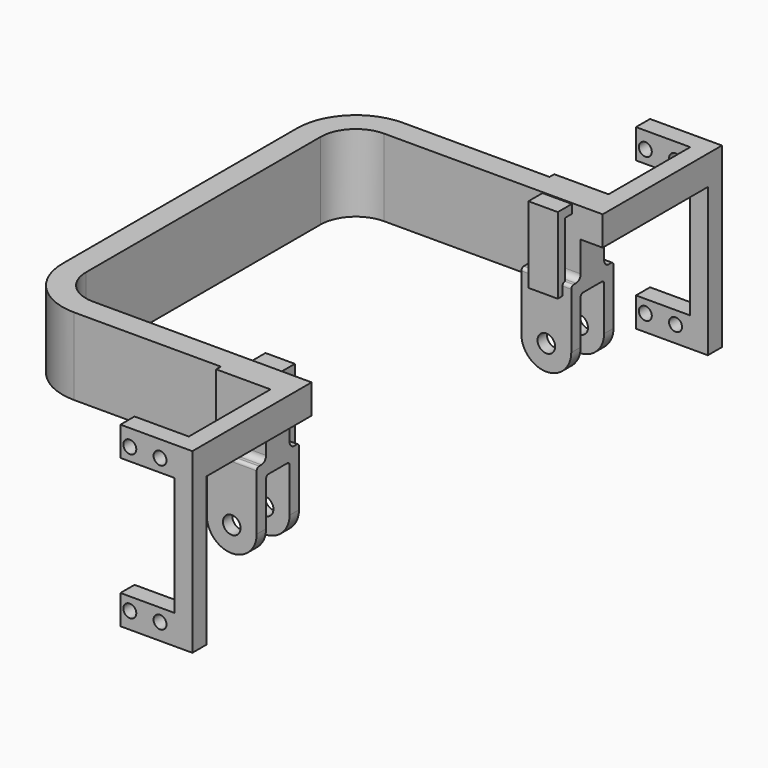
from build123d import *

# Parameters (mm, degrees)
PAD033_DEPTH                = 10
PAD032_DEPTH                = 10
BOX026_W                    = 12
BOX026_H                    = 10
BOX026_DEPTH                = 30
CYLINDER036_R               = 2.2
CYLINDER036_DEPTH           = 18
CYLINDER036_ROLL_ANGLE      = -90
ARRAY006_X_COUNT            = 2
ARRAY006_X_PITCH            = 49.2
ARRAY006_Z_COUNT            = 2
ARRAY006_Z_PITCH            = 10.3
PAD021_DEPTH                = 6
PAD020_DEPTH                = 10
BOX027_W                    = 12
BOX027_H                    = 10
BOX027_DEPTH                = 30
CYLINDER037_R               = 2.2
CYLINDER037_DEPTH           = 18
CYLINDER037_ROLL_ANGLE      = -90
ARRAY007_X_COUNT            = 2
ARRAY007_X_PITCH            = 49.2
ARRAY007_Z_COUNT            = 2
ARRAY007_Z_PITCH            = 10.3
PAD023_DEPTH                = 6
PAD022_DEPTH                = 10
BOX025_W                    = 16.3
BOX025_H                    = 10
BOX025_DEPTH                = 17
SKETCH018_R                 = 3
PAD018_DEPTH                = 4
SKETCH019_R                 = 3
PAD019_DEPTH                = 4
BOX024_W                    = 20
BOX024_H                    = 17
BOX024_DEPTH                = 10
FILLET007_R                 = 1
FILLET007_ROLL_ANGLE        = 90
FILLET008_1_R               = 2
FILLET008_2_R               = 1
BOX018_W                    = 16.3
BOX018_H                    = 10
BOX018_DEPTH                = 17
SKETCH010_R                 = 3
PAD010_DEPTH                = 4
SKETCH011_R                 = 3
PAD011_DEPTH                = 4
BOX016_W                    = 20
BOX016_H                    = 17
BOX016_DEPTH                = 10
FILLET005_R                 = 1
FILLET005_ROLL_ANGLE        = 90
FILLET006_1_R               = 2
FILLET006_2_R               = 1
PAD009_DEPTH                = 26.3
FUSION009003041_PITCH_ANGLE = 90


with BuildPart() as obj1:
    # Sketch033 → Pad033 (new body)
    with BuildSketch(Plane(origin=(-28, -127, 4), x_dir=(1, 0, 0), z_dir=(0, 0, 1))):
        Polygon((0, 0), (0, 6), (26, 6), (26, 0), (23, 0), (23, 3), (3, 3), (3, 0), align=None)
    extrude(amount=PAD033_DEPTH)


with BuildPart() as obj1_mirror:
    # Part__Mirroring009: instance of obj1
    add(obj1.part.mirror(Plane(origin=(0, 0, 0), x_dir=(1, 0, 0), z_dir=(0, 1, 0))))


with BuildPart() as obj1_mirror_1:
    # Part__Mirroring009 placement: moved
    add(obj1_mirror.part.moved(Location((0, -130, 0))))


with BuildPart() as obj2:
    # Sketch032 → Pad032 (new body)
    with BuildSketch(Plane(origin=(-28, -127, 4), x_dir=(1, 0, 0), z_dir=(0, 0, 1))):
        Polygon((0, 0), (0, 6), (26, 6), (26, 0), (23, 0), (23, 3), (3, 3), (3, 0), align=None)
    extrude(amount=PAD032_DEPTH)

    # Fusion009003040: union obj1_mirror
    add(obj1_mirror_1.part)


with BuildPart() as obj3:
    # Box026 → Box026 (new body)
    with BuildSketch(Plane(origin=(-29.5, -13, 0), x_dir=(1, 0, 0), z_dir=(0, 0, 1))):
        with Locations((6, 5)):
            Rectangle(BOX026_W, BOX026_H)
    extrude(amount=BOX026_DEPTH)


with BuildPart() as obj4:
    # Cylinder036 → Cylinder036 (new body)
    with BuildSketch(Plane.XY):
        Circle(CYLINDER036_R)
    extrude(amount=CYLINDER036_DEPTH)


with BuildPart() as obj4_1:
    # Cylinder036 roll: moved
    add(obj4.part.rotate(Axis((0, 0, 0), (1, 0, 0)), CYLINDER036_ROLL_ANGLE))


with BuildPart() as obj4_2:
    # Cylinder036 placement: moved
    add(obj4_1.part.moved(Location((150.075, 41, 13.5))))

    # Array006 X: obj4_2


with BuildPart() as obj4_3:
    add(obj4_2.part)
    with Locations(*[(i * ARRAY006_X_PITCH, 0, 0) for i in range(1, ARRAY006_X_COUNT)]):
        add(obj4_2.part)

    # Array006 Z: obj4_2


with BuildPart() as obj4_4:
    add(obj4_3.part)
    with Locations(*[(0, 0, -i * ARRAY006_Z_PITCH) for i in range(1, ARRAY006_Z_COUNT)]):
        add(obj4_3.part)


with BuildPart() as obj5:
    # Sketch021 → Pad021 (new body)
    with BuildSketch(Plane(origin=(10, 54.8, 0), x_dir=(1, 0, 0), z_dir=(0, -1, 0))):
        Polygon((0, 18.5), (0, 24.5), (50.5, 24.5), (50.5, 0), (40.5, 0), (40.5, 18.5), align=None)
    extrude(amount=PAD021_DEPTH)


with BuildPart() as obj6:
    # Sketch020 → Pad020 (new body)
    with BuildSketch(Plane.YZ):
        Polygon((14, 0), (0, 0), (0, 24.5), (54.8, 24.5), (54.8, 0), (48.8, 0), (48.8, 18.5), (14, 18.5), align=None)
    extrude(amount=PAD020_DEPTH)

    # Fusion009003025: union obj5
    add(obj5.part)


with BuildPart() as obj6_1:
    # Fusion009003025 placement: moved
    add(obj6.part.moved(Location((144.425, -3, 0))))

    # Cut017: cut obj4
    add(obj4_4.part, mode=Mode.SUBTRACT)


with BuildPart() as obj6_2:
    # Cut017 placement: moved
    add(obj6_1.part.moved(Location((-172.725, -4, 0))))

    # Cut018: cut obj3
    add(obj3.part, mode=Mode.SUBTRACT)


with BuildPart() as obj7:
    # Box027 → Box027 (new body)
    with BuildSketch(Plane(origin=(-29.5, -13, 0), x_dir=(1, 0, 0), z_dir=(0, 0, 1))):
        with Locations((6, 5)):
            Rectangle(BOX027_W, BOX027_H)
    extrude(amount=BOX027_DEPTH)


with BuildPart() as obj8:
    # Cylinder037 → Cylinder037 (new body)
    with BuildSketch(Plane.XY):
        Circle(CYLINDER037_R)
    extrude(amount=CYLINDER037_DEPTH)


with BuildPart() as obj8_1:
    # Cylinder037 roll: moved
    add(obj8.part.rotate(Axis((0, 0, 0), (1, 0, 0)), CYLINDER037_ROLL_ANGLE))


with BuildPart() as obj8_2:
    # Cylinder037 placement: moved
    add(obj8_1.part.moved(Location((150.075, 41, 13.5))))

    # Array007 X: obj8_2


with BuildPart() as obj8_3:
    add(obj8_2.part)
    with Locations(*[(i * ARRAY007_X_PITCH, 0, 0) for i in range(1, ARRAY007_X_COUNT)]):
        add(obj8_2.part)

    # Array007 Z: obj8_2


with BuildPart() as obj8_4:
    add(obj8_3.part)
    with Locations(*[(0, 0, -i * ARRAY007_Z_PITCH) for i in range(1, ARRAY007_Z_COUNT)]):
        add(obj8_3.part)


with BuildPart() as obj9:
    # Sketch023 → Pad023 (new body)
    with BuildSketch(Plane(origin=(10, 54.8, 0), x_dir=(1, 0, 0), z_dir=(0, -1, 0))):
        Polygon((0, 18.5), (0, 24.5), (50.5, 24.5), (50.5, 0), (40.5, 0), (40.5, 18.5), align=None)
    extrude(amount=PAD023_DEPTH)


with BuildPart() as obj10:
    # Sketch022 → Pad022 (new body)
    with BuildSketch(Plane.YZ):
        Polygon((14, 0), (0, 0), (0, 24.5), (54.8, 24.5), (54.8, 0), (48.8, 0), (48.8, 18.5), (14, 18.5), align=None)
    extrude(amount=PAD022_DEPTH)

    # Fusion009003026: union obj9
    add(obj9.part)


with BuildPart() as obj10_1:
    # Fusion009003026 placement: moved
    add(obj10.part.moved(Location((144.425, -3, 0))))

    # Cut019: cut obj8
    add(obj8_4.part, mode=Mode.SUBTRACT)


with BuildPart() as obj10_2:
    # Cut019 placement: moved
    add(obj10_1.part.moved(Location((-172.725, -4, 0))))

    # Cut020: cut obj7
    add(obj7.part, mode=Mode.SUBTRACT)


with BuildPart() as obj11:
    # Part__Mirroring: instance of obj10
    add(obj10_2.part.mirror(Plane(origin=(0, 0, 0), x_dir=(1, 0, 0), z_dir=(0, 1, 0))))


with BuildPart() as obj11_1:
    # Part__Mirroring placement: moved
    add(obj11.part.moved(Location((0, -130, 0))))


with BuildPart() as obj12:
    # Box025 → Box025 (new body)
    with BuildSketch(Plane(origin=(-26.3, -8, 0), x_dir=(1, 0, 0), z_dir=(0, 0, 1))):
        with Locations((8.15, 5)):
            Rectangle(BOX025_W, BOX025_H)
    extrude(amount=BOX025_DEPTH)


with BuildPart() as obj13:
    # Sketch018 → Pad018 (new body)
    with BuildSketch(Plane.XY):
        with BuildLine():
            Line((0, 17), (20, 17))
            ThreePointArc((20, 0), (28.500019, 8.5), (20, 17))
            Line((20, 0), (0, 0))
            Line((0, 0), (0, 17))
        make_face()
        with Locations((20.000019, 8.5)):
            Circle(SKETCH018_R, mode=Mode.SUBTRACT)
    extrude(amount=PAD018_DEPTH)


with BuildPart() as obj14:
    # Sketch019 → Pad019 (new body)
    with BuildSketch(Plane.XY.offset(14)):
        with BuildLine():
            Line((0, 17), (20, 17))
            ThreePointArc((20, 0), (28.500019, 8.5), (20, 17))
            Line((20, 0), (0, 0))
            Line((0, 0), (0, 17))
        make_face()
        with Locations((20.000019, 8.5)):
            Circle(SKETCH019_R, mode=Mode.SUBTRACT)
    extrude(amount=PAD019_DEPTH)


with BuildPart() as obj15:
    # Box024 → Box024 (new body)
    with BuildSketch(Plane(origin=(-16, 0, 4), x_dir=(1, 0, 0), z_dir=(0, 0, 1))):
        with Locations((10, 8.5)):
            Rectangle(BOX024_W, BOX024_H)
    extrude(amount=BOX024_DEPTH)

    # Fusion009003021: union obj13, obj14
    add(obj13.part)
    add(obj14.part)

    # Fillet007
    fillet007_edges = [obj15.edges().sort_by_distance(p)[0] for p in [
        (0, 8.5, 18),
        (-16, 0, 9),
        (-16, 17, 9),
        (0, 8.5, 0),
    ]]
    fillet(fillet007_edges, radius=FILLET007_R)


with BuildPart() as obj15_1:
    # Fillet007 roll: moved
    add(obj15.part.rotate(Axis((0, 0, 0), (1, 0, 0)), FILLET007_ROLL_ANGLE))


with BuildPart() as obj15_2:
    # Fillet007 placement: moved
    add(obj15_1.part.moved(Location((16, 15, 0))))

    # Fillet008 1
    fillet008_1_edges = [obj15_2.edges().sort_by_distance(p)[0] for p in [
        (16, 1, 8.5),
        (16, 11, 8.5),
    ]]
    fillet(fillet008_1_edges, radius=FILLET008_1_R)

    # Fillet008 2
    fillet008_2_edges = [obj15_2.edges().sort_by_distance(p)[0] for p in [
        (20, 1, 8.5),
        (20, 11, 8.5),
    ]]
    fillet(fillet008_2_edges, radius=FILLET008_2_R)


with BuildPart() as obj15_3:
    # Fillet008 placement: moved
    add(obj15_2.part.moved(Location((-20, -9, 0))))

    # Fusion009003022: union obj12
    add(obj12.part)


with BuildPart() as obj15_4:
    # Fusion009003022 placement: moved
    add(obj15_3.part.moved(Location((0, -134, 0))))


with BuildPart() as obj16:
    # Box018 → Box018 (new body)
    with BuildSketch(Plane(origin=(-26.3, -8, 0), x_dir=(1, 0, 0), z_dir=(0, 0, 1))):
        with Locations((8.15, 5)):
            Rectangle(BOX018_W, BOX018_H)
    extrude(amount=BOX018_DEPTH)


with BuildPart() as obj17:
    # Sketch010 → Pad010 (new body)
    with BuildSketch(Plane.XY):
        with BuildLine():
            Line((0, 17), (20, 17))
            ThreePointArc((20, 0), (28.500019, 8.5), (20, 17))
            Line((20, 0), (0, 0))
            Line((0, 0), (0, 17))
        make_face()
        with Locations((20.000019, 8.5)):
            Circle(SKETCH010_R, mode=Mode.SUBTRACT)
    extrude(amount=PAD010_DEPTH)


with BuildPart() as obj18:
    # Sketch011 → Pad011 (new body)
    with BuildSketch(Plane.XY.offset(14)):
        with BuildLine():
            Line((0, 17), (20, 17))
            ThreePointArc((20, 0), (28.500019, 8.5), (20, 17))
            Line((20, 0), (0, 0))
            Line((0, 0), (0, 17))
        make_face()
        with Locations((20.000019, 8.5)):
            Circle(SKETCH011_R, mode=Mode.SUBTRACT)
    extrude(amount=PAD011_DEPTH)


with BuildPart() as obj19:
    # Box016 → Box016 (new body)
    with BuildSketch(Plane(origin=(-16, 0, 4), x_dir=(1, 0, 0), z_dir=(0, 0, 1))):
        with Locations((10, 8.5)):
            Rectangle(BOX016_W, BOX016_H)
    extrude(amount=BOX016_DEPTH)

    # Fusion009003009: union obj17, obj18
    add(obj17.part)
    add(obj18.part)

    # Fillet005
    fillet005_edges = [obj19.edges().sort_by_distance(p)[0] for p in [
        (0, 8.5, 18),
        (-16, 0, 9),
        (-16, 17, 9),
        (0, 8.5, 0),
    ]]
    fillet(fillet005_edges, radius=FILLET005_R)


with BuildPart() as obj19_1:
    # Fillet005 roll: moved
    add(obj19.part.rotate(Axis((0, 0, 0), (1, 0, 0)), FILLET005_ROLL_ANGLE))


with BuildPart() as obj19_2:
    # Fillet005 placement: moved
    add(obj19_1.part.moved(Location((16, 15, 0))))

    # Fillet006 1
    fillet006_1_edges = [obj19_2.edges().sort_by_distance(p)[0] for p in [
        (16, 1, 8.5),
        (16, 11, 8.5),
    ]]
    fillet(fillet006_1_edges, radius=FILLET006_1_R)

    # Fillet006 2
    fillet006_2_edges = [obj19_2.edges().sort_by_distance(p)[0] for p in [
        (20, 1, 8.5),
        (20, 11, 8.5),
    ]]
    fillet(fillet006_2_edges, radius=FILLET006_2_R)


with BuildPart() as obj19_3:
    # Fillet006 placement: moved
    add(obj19_2.part.moved(Location((-20, -9, 0))))

    # Fusion009003020: union obj16
    add(obj16.part)

    # Fusion009003023: union obj15
    add(obj15_4.part)


with BuildPart() as obj20:
    # Sketch009 → Pad009 (new body)
    with BuildSketch(Plane(origin=(0, 0, 0), x_dir=(0, 1, 0), z_dir=(-1, 0, 0))):
        with BuildLine():
            Line((-140, 0), (-140, 50))
            ThreePointArc((-120, 70), (-134.142136, 64.142136), (-140, 50))
            Line((-120, 70), (-20, 70))
            ThreePointArc((0, 50), (-5.857864, 64.142136), (-20, 70))
            Line((0, 50), (0, 0))
            Line((0, 0), (-8, 0))
            Line((-8, 0), (-8, 50))
            ThreePointArc((-8, 50), (-11.514719, 58.485281), (-20, 62))
            Line((-20, 62), (-120, 62))
            ThreePointArc((-120, 62), (-128.485281, 58.485281), (-132, 50))
            Line((-132, 50), (-132, 0))
            Line((-132, 0), (-140, 0))
        make_face()
    extrude(amount=PAD009_DEPTH)

    # Fusion009003024: union obj19
    add(obj19_3.part)


with BuildPart() as obj20_1:
    # Fusion009003024 placement: moved
    add(obj20.part.moved(Location((-2, 5, 0))))

    # Fusion009003027: union obj6, obj11
    add(obj6_2.part)
    add(obj11_1.part)

    # Fusion009003041: union obj2
    add(obj2.part)


with BuildPart() as obj20_2:
    # Fusion009003041 pitch: moved
    add(obj20_1.part.rotate(Axis((0, 0, 0), (0, 1, 0)), FUSION009003041_PITCH_ANGLE))


with BuildPart() as obj20_3:
    # Fusion009003041 placement: moved
    add(obj20_2.part.moved(Location((359, 67, 326))))


solid = obj20_3.part
